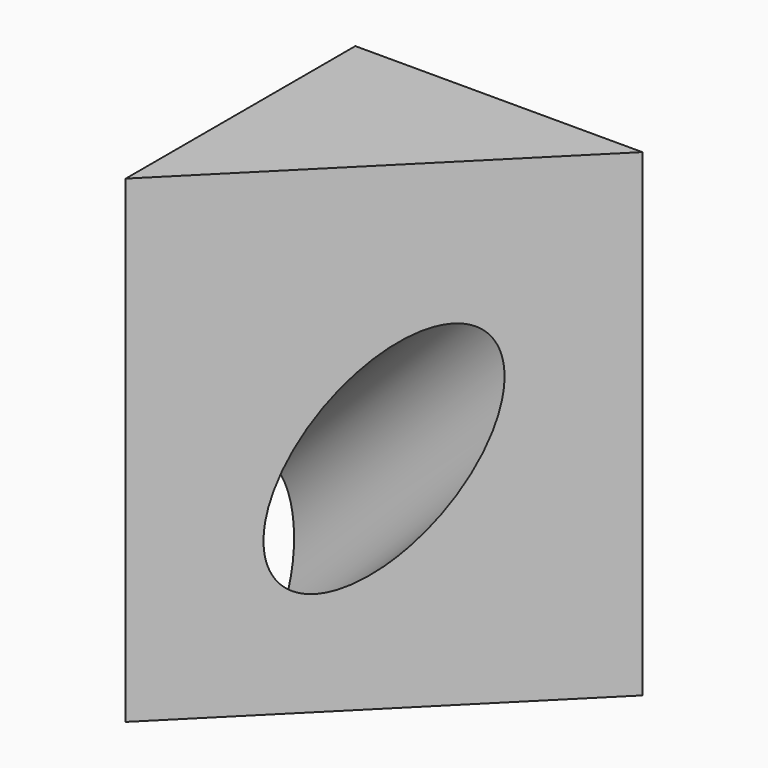
from build123d import *

# Parameters (mm, degrees)
F0_W          = 38.1
F0_H          = 63.5
F1_DEPTH      = 38.1
F4_R          = 8.89
F5_DEPTH      = 50.8
F5_DEPTH_BACK = 76.2
F7_DEPTH      = 76.2


with BuildPart() as f1:
    # F0 (on Front) → F1 (new body)
    with BuildSketch(Plane.XZ):
        with Locations((-19.05, -31.75)):
            Rectangle(F0_W, F0_H)
    extrude(amount=F1_DEPTH)

    # F4 (on line) → F5 (cut, two sides)
    with BuildSketch(Plane(origin=(-7.62, 0, -7.62), x_dir=(0.7071067812, 0, -0.7071067812), z_dir=(-0.7071067812, 0, -0.7071067812))) as f5_sk:
        with Locations((10.7763073453, 19.05)):
            Circle(F4_R)
    extrude(amount=-F5_DEPTH, mode=Mode.SUBTRACT)
    extrude(f5_sk.sketch, amount=F5_DEPTH_BACK, mode=Mode.SUBTRACT)

    # F6 (on face) → F7 (cut)
    with BuildSketch(Plane.XY):
        Polygon((0, -38.1), (0, 0), (-38.1, -38.1), align=None)
    extrude(amount=-F7_DEPTH, mode=Mode.SUBTRACT)


solid = f1.part
